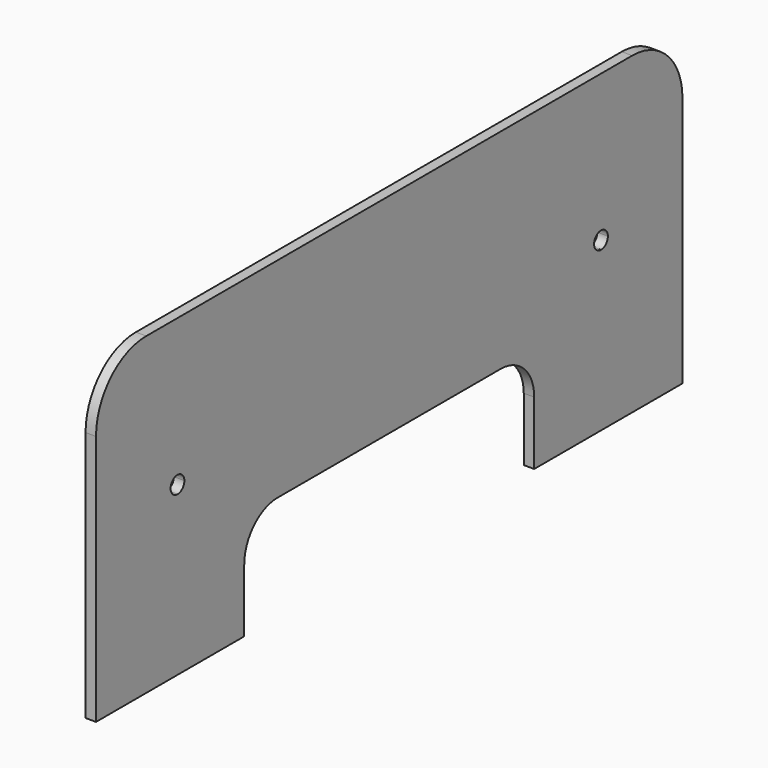
from build123d import *

# Parameters (mm, degrees)
F1_DEPTH = 5


with BuildPart() as f1:
    # F0 (on Right) → F1 (new body)
    with BuildSketch(Plane.YZ):
        with BuildLine():
            Line((86.536467, -75), (175, -75))
            Line((175, -75), (175, 45))
            ThreePointArc((175, 45), (166.213203, 66.213203), (145, 75))
            Line((145, 75), (4, 75))
            Line((4, 75), (-4, 75))
            Line((-4, 75), (-145, 75))
            ThreePointArc((-145, 75), (-166.213203, 66.213203), (-175, 45))
            Line((-175, 45), (-175, -75))
            Line((-175, -75), (-86.536467, -75))
            Line((-86.536467, -75), (-86.536467, -44.789667))
            ThreePointArc((-86.536467, -44.789667), (-80.678603, -30.647532), (-66.536467, -24.789667))
            Line((-66.536467, -24.789667), (0, -24.789667))
            Line((0, -24.789667), (66.536467, -24.789667))
            ThreePointArc((66.536467, -24.789667), (80.678603, -30.647532), (86.536467, -44.789667))
            Line((86.536467, -44.789667), (86.536467, -75))
        make_face()
        with BuildLine():
            ThreePointArc((-126.262431, 9.098346), (-123.438869, 7.857665), (-122.278895, 5))
            ThreePointArc((-122.278895, 5), (-123.438869, 2.142335), (-126.262431, 0.901654))
            ThreePointArc((-126.262431, 0.901654), (-130.478895, 5), (-126.262431, 9.098346))
        make_face(mode=Mode.SUBTRACT)
        with BuildLine():
            ThreePointArc((126.495464, 9.098346), (129.319026, 7.857665), (130.479, 5))
            ThreePointArc((130.479, 5), (129.319026, 2.142335), (126.495464, 0.901654))
            Line((126.495464, 0.901654), (126.495464, 0.9))
            Line((126.495464, 0.9), (126.379, 0.9))
            ThreePointArc((126.379, 0.9), (122.279414, 4.941762), (126.262536, 9.098346))
            ThreePointArc((126.262536, 9.098346), (126.379, 9.1), (126.495464, 9.098346))
        make_face(mode=Mode.SUBTRACT)
    extrude(amount=F1_DEPTH)


solid = f1.part
